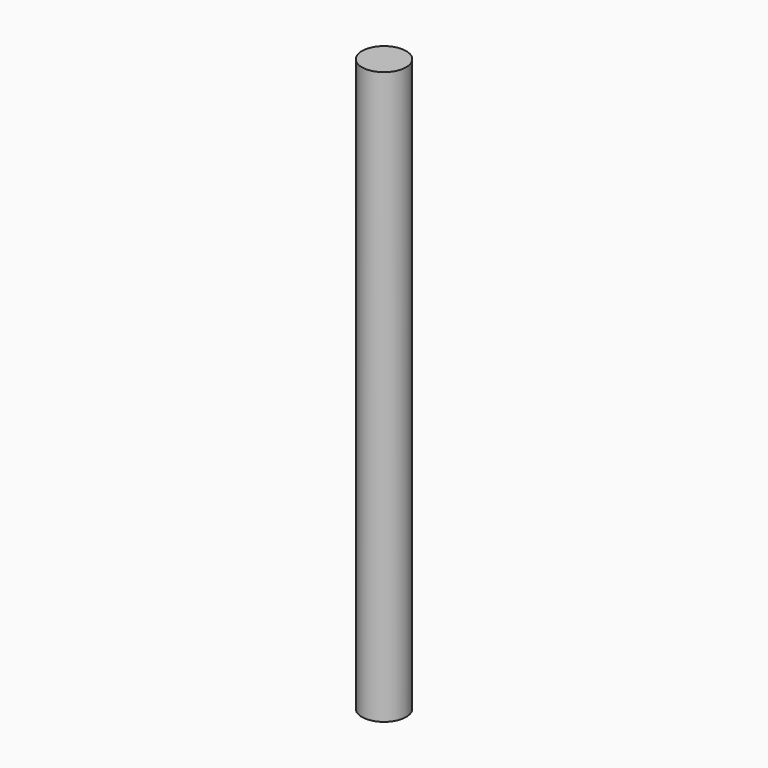
from build123d import *

# Parameters (mm, degrees)
F0_R     = 11.7602189776
F1_DEPTH = 304.8
F3_D     = 6.35
F3_DEPTH = 11.7612189776


with BuildPart() as f1:
    # F0 (on Top) → F1 (new body)
    with BuildSketch(Plane.XY):
        Circle(F0_R)
    extrude(amount=F1_DEPTH)

    # F3 (through all, one way)
    with BuildSketch(Plane.XZ):
        with Locations((0, 156.21), (0, 80.01), (0, 3.81), (0, 232.41), (0, 298.45)):
            Circle(F3_D / 2)
    extrude(amount=-F3_DEPTH, mode=Mode.SUBTRACT)


solid = f1.part
